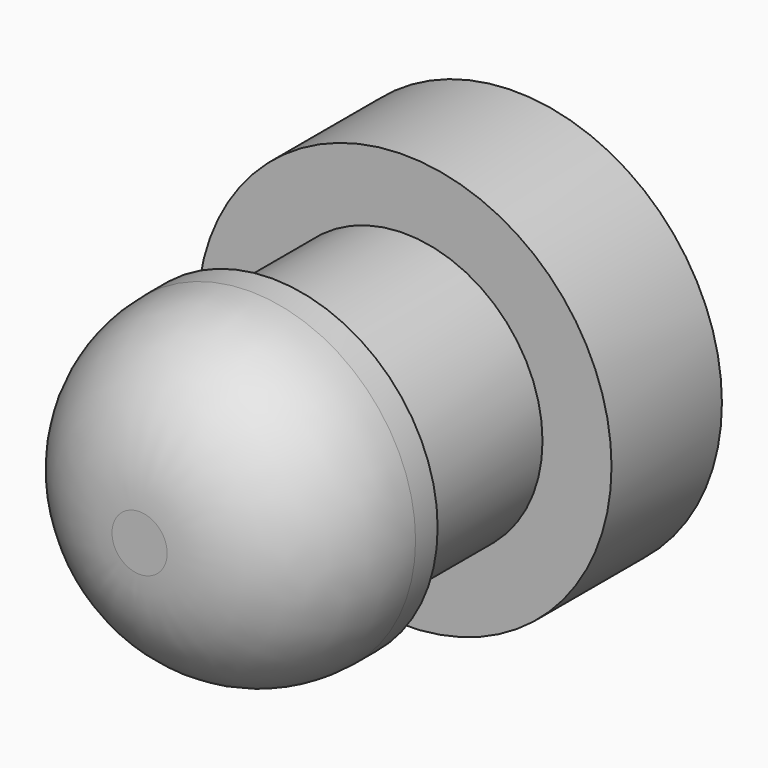
from build123d import *

# Parameters (mm, degrees)
F0_R     = 9.525
F1_DEPTH = 6.35
F2_R     = 6.35
F3_DEPTH = 7.62
F4_R     = 7.62
F5_DEPTH = 7.62
F6_R     = 6.35


with BuildPart() as f1:
    # F0 (on Front) → F1 (new body)
    with BuildSketch(Plane.XZ):
        Circle(F0_R)
    extrude(amount=F1_DEPTH)

    # F2 (on face) → F3 (join)
    with BuildSketch(Plane.XZ.offset(6.35)):
        Circle(F2_R)
    extrude(amount=F3_DEPTH)

    # F4 (on face) → F5 (join)
    with BuildSketch(Plane.XZ.offset(13.97)):
        Circle(F4_R)
    extrude(amount=F5_DEPTH)

    # F6
    f6_edges = [f1.edges().sort_by_distance(p)[0] for p in [
        (-7.62, -21.59, 0),
    ]]
    fillet(f6_edges, radius=F6_R)


solid = f1.part
